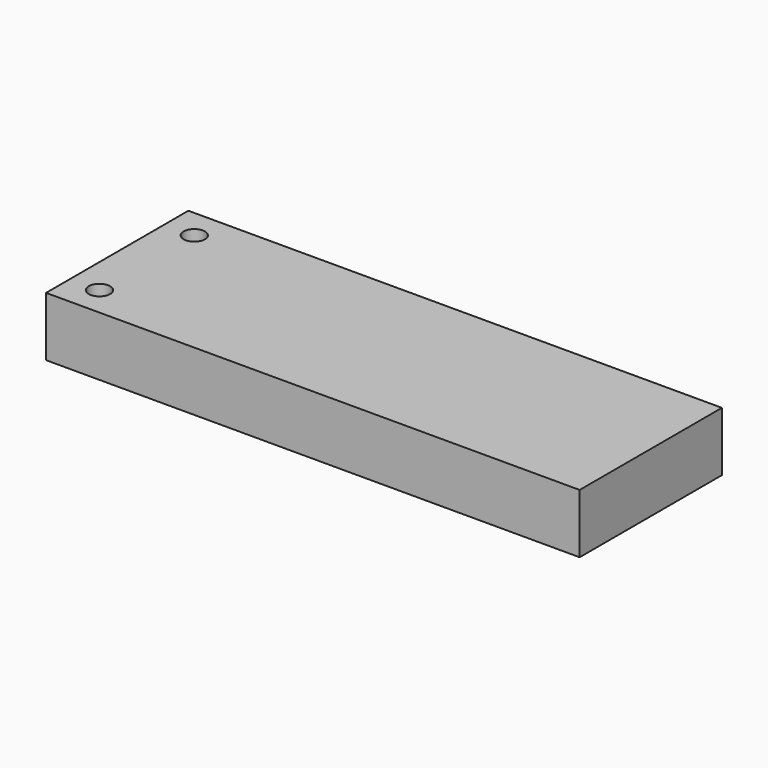
from build123d import *

# Parameters (mm, degrees)
F0_W     = 90
F0_H     = 30
F1_DEPTH = 5
F2_R     = 1.8
F3_DEPTH = 21
F4_R     = 1.8
F5_DEPTH = 21


with BuildPart() as f1:
    # F0 (on Top) → F1 (new body, symmetric)
    with BuildSketch(Plane.XY):
        Rectangle(F0_W, F0_H)
    extrude(amount=F1_DEPTH, both=True)

    # F2 (on face) → F3 (cut)
    with BuildSketch(Plane.XY.offset(5)):
        with Locations((-40, 10)):
            Circle(F2_R)
    extrude(amount=-F3_DEPTH, mode=Mode.SUBTRACT)

    # F4 (on face) → F5 (cut)
    with BuildSketch(Plane.XY.offset(5)):
        with Locations((-40, -10)):
            Circle(F4_R)
    extrude(amount=-F5_DEPTH, mode=Mode.SUBTRACT)


solid = f1.part
